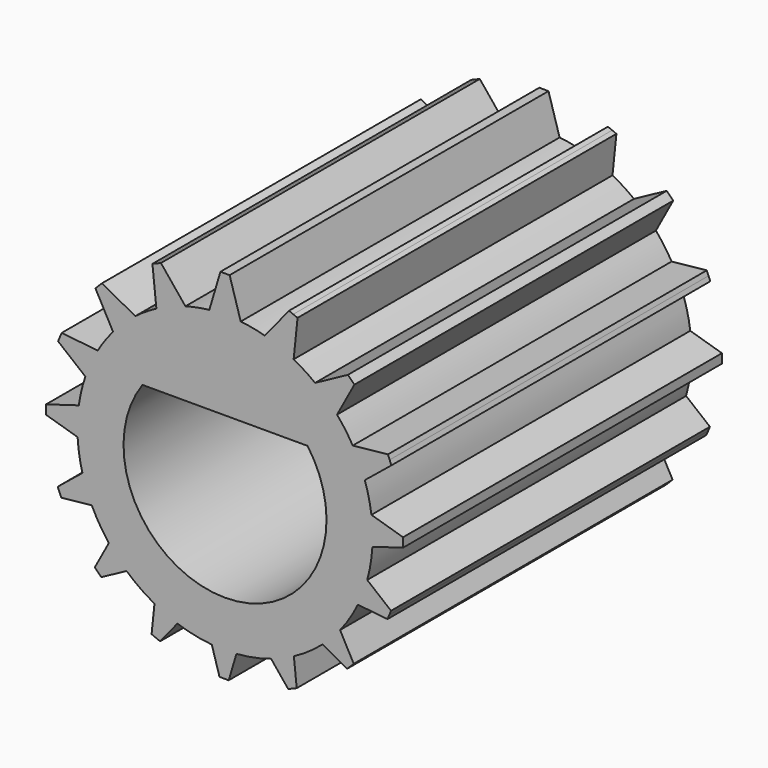
from build123d import *

# Parameters (mm, degrees)
F1_DEPTH      = 8.382
F2_R          = 3.4925
F4_DEPTH      = 25.4
F4_DEPTH_BACK = 25.4
F5_R          = 3.4925
F6_DEPTH      = 17.018
F3_R          = 12.173487119
F3_R_2        = 5.08
F7_DEPTH      = 8.636
F9_DEPTH      = 8.636
F10_DEPTH     = 8.382
F11_DEPTH     = 8.382
F12_DEPTH     = 5.08
F14_DEPTH     = 13.716


with BuildPart() as f1:
    # F0 (on Front) → F1 (new body)
    with BuildSketch(Plane.XZ):
        with BuildLine():
            ThreePointArc((6.1828297209, -0.9138471655), (6.2331848102, -0.4581562201), (6.25, 0))
            ThreePointArc((6.25, 0), (6.2331848102, 0.4581562201), (6.1828297209, 0.9138471655))
            ThreePointArc((6.1828297209, 0.9138471655), (5.4126587737, 3.125), (3.8828297209, 4.8975640229))
            ThreePointArc((3.8828297209, 4.8975640229), (3.125, 5.4126587737), (2.3, 5.8114111883))
            ThreePointArc((2.3, 5.8114111883), (1.170722015, 6.1393737436), (0, 6.25))
            ThreePointArc((0, 6.25), (-1.170722015, 6.1393737436), (-2.3, 5.8114111883))
            ThreePointArc((-2.3, 5.8114111883), (-3.125, 5.4126587737), (-3.8828297209, 4.8975640229))
            ThreePointArc((-3.8828297209, 4.8975640229), (-5.4126587737, 3.125), (-6.1828297209, 0.9138471655))
            ThreePointArc((-6.1828297209, 0.9138471655), (-6.25, 0), (-6.1828297209, -0.9138471655))
            ThreePointArc((-6.1828297209, -0.9138471655), (-5.4126587737, -3.125), (-3.8828297209, -4.8975640229))
            ThreePointArc((-3.8828297209, -4.8975640229), (-3.125, -5.4126587737), (-2.3, -5.8114111883))
            ThreePointArc((-2.3, -5.8114111883), (0, -6.25), (2.3, -5.8114111883))
            ThreePointArc((2.3, -5.8114111883), (3.125, -5.4126587737), (3.8828297209, -4.8975640229))
            ThreePointArc((3.8828297209, -4.8975640229), (5.4126587737, -3.125), (6.1828297209, -0.9138471655))
        make_face()
        with BuildLine():
            ThreePointArc((3.8828297209, 4.8975640229), (5.4126587737, 3.125), (6.1828297209, 0.9138471655))
            Line((6.1828297209, 0.9138471655), (8.490734985, 3.7936156124))
            Line((8.490734985, 3.7936156124), (8.010734985, 4.625))
            Line((8.010734985, 4.625), (7.530734985, 5.4563843876))
            Line((7.530734985, 5.4563843876), (3.8828297209, 4.8975640229))
        make_face()
        with BuildLine():
            Line((8.490734985, -3.7936156124), (6.1828297209, -0.9138471655))
            ThreePointArc((6.1828297209, -0.9138471655), (5.4126587737, -3.125), (3.8828297209, -4.8975640229))
            Line((3.8828297209, -4.8975640229), (7.530734985, -5.4563843876))
            Line((7.530734985, -5.4563843876), (8.010734985, -4.625))
            Line((8.010734985, -4.625), (8.490734985, -3.7936156124))
        make_face()
        with BuildLine():
            ThreePointArc((0, 6.25), (1.170722015, 6.1393737436), (2.3, 5.8114111883))
            Line((2.3, 5.8114111883), (0.96, 9.25))
            Line((0.96, 9.25), (0, 9.25))
            Line((0, 9.25), (0, 6.25))
        make_face()
        with BuildLine():
            Line((0.96, -9.25), (2.3, -5.8114111883))
            ThreePointArc((2.3, -5.8114111883), (0, -6.25), (-2.3, -5.8114111883))
            Line((-2.3, -5.8114111883), (-0.96, -9.25))
            Line((-0.96, -9.25), (0, -9.25))
            Line((0, -9.25), (0.96, -9.25))
        make_face()
        with BuildLine():
            ThreePointArc((-2.3, 5.8114111883), (-1.170722015, 6.1393737436), (0, 6.25))
            Line((0, 6.25), (0, 9.25))
            Line((0, 9.25), (-0.96, 9.25))
            Line((-0.96, 9.25), (-2.3, 5.8114111883))
        make_face()
        with BuildLine():
            Line((-7.530734985, -5.4563843876), (-3.8828297209, -4.8975640229))
            ThreePointArc((-3.8828297209, -4.8975640229), (-5.4126587737, -3.125), (-6.1828297209, -0.9138471655))
            Line((-6.1828297209, -0.9138471655), (-8.490734985, -3.7936156124))
            Line((-8.490734985, -3.7936156124), (-8.010734985, -4.625))
            Line((-8.010734985, -4.625), (-7.530734985, -5.4563843876))
        make_face()
        with BuildLine():
            ThreePointArc((-6.1828297209, 0.9138471655), (-5.4126587737, 3.125), (-3.8828297209, 4.8975640229))
            Line((-3.8828297209, 4.8975640229), (-7.530734985, 5.4563843876))
            Line((-7.530734985, 5.4563843876), (-8.010734985, 4.625))
            Line((-8.010734985, 4.625), (-8.490734985, 3.7936156124))
            Line((-8.490734985, 3.7936156124), (-6.1828297209, 0.9138471655))
        make_face()
    extrude(amount=F1_DEPTH)

    # F2 (on face) → F4 (cut, two sides)
    with BuildSketch(Plane.XZ.offset(8.382)) as f4_sk:
        Circle(F2_R)
    extrude(amount=-F4_DEPTH, mode=Mode.SUBTRACT)
    extrude(f4_sk.sketch, amount=F4_DEPTH_BACK, mode=Mode.SUBTRACT)

    # F5 (on face) → F6 (join)
    with BuildSketch(Plane.XZ.offset(8.382)):
        with BuildLine():
            ThreePointArc((6.1828297209, -0.9138471655), (6.25, 0), (6.1828297209, 0.9138471655))
            Line((6.1828297209, 0.9138471655), (8.490734985, 3.7936156124))
            Line((8.490734985, 3.7936156124), (7.530734985, 5.4563843876))
            Line((7.530734985, 5.4563843876), (3.8828297209, 4.8975640229))
            ThreePointArc((3.8828297209, 4.8975640229), (3.125, 5.4126587737), (2.3, 5.8114111883))
            Line((2.3, 5.8114111883), (0.96, 9.25))
            Line((0.96, 9.25), (-0.96, 9.25))
            Line((-0.96, 9.25), (-2.3, 5.8114111883))
            ThreePointArc((-2.3, 5.8114111883), (-3.125, 5.4126587737), (-3.8828297209, 4.8975640229))
            Line((-3.8828297209, 4.8975640229), (-7.530734985, 5.4563843876))
            Line((-7.530734985, 5.4563843876), (-8.490734985, 3.7936156124))
            Line((-8.490734985, 3.7936156124), (-6.1828297209, 0.9138471655))
            ThreePointArc((-6.1828297209, 0.9138471655), (-6.25, 0), (-6.1828297209, -0.9138471655))
            Line((-6.1828297209, -0.9138471655), (-8.490734985, -3.7936156124))
            Line((-8.490734985, -3.7936156124), (-7.530734985, -5.4563843876))
            Line((-7.530734985, -5.4563843876), (-3.8828297209, -4.8975640229))
            ThreePointArc((-3.8828297209, -4.8975640229), (-3.125, -5.4126587737), (-2.3, -5.8114111883))
            Line((-2.3, -5.8114111883), (-0.96, -9.25))
            Line((-0.96, -9.25), (0.96, -9.25))
            Line((0.96, -9.25), (2.3, -5.8114111883))
            ThreePointArc((2.3, -5.8114111883), (3.125, -5.4126587737), (3.8828297209, -4.8975640229))
            Line((3.8828297209, -4.8975640229), (7.530734985, -5.4563843876))
            Line((7.530734985, -5.4563843876), (8.490734985, -3.7936156124))
            Line((8.490734985, -3.7936156124), (6.1828297209, -0.9138471655))
        make_face()
        Circle(F5_R, mode=Mode.SUBTRACT)
    extrude(amount=F6_DEPTH)

    # F3 (on face) → F7 (cut)
    with BuildSketch(Plane.XZ.offset(8.382)):
        Circle(F3_R)
        Circle(F3_R_2, mode=Mode.SUBTRACT)
    extrude(amount=F7_DEPTH, mode=Mode.SUBTRACT)

    # F8 (on face) → F9 (join)
    with BuildSketch(Plane.XZ.offset(8.382)):
        Polygon((0, 6.331880849), (-0.1584395108, 6.331880849), (-0.5401262814, 5.0512041733), (-0.5212335788, 4.7746545562), (0, 4.7746545562), (0.5212335788, 4.7746545562), (0.5401262814, 5.0512041733), (0.1584395108, 6.331880849), align=None)
        Polygon((-2.3517561236, 5.8703246961), (-2.4981351448, 5.8096925202), (-2.3606739939, 4.4804363484), (-2.237388456, 4.2321677417), (-1.7558314209, 4.4316351967), (-1.2742743857, 4.6311026517), (-1.3626507612, 4.8938311069), (-2.2053771024, 5.9309568719), align=None)
        Polygon((-4.3478655788, 4.5439243078), (-4.4598992313, 4.4318906553), (-3.8242173731, 3.2564221897), (-3.6153081055, 3.0742312382), (-3.2467403073, 3.4427990364), (-2.8781725091, 3.8113668345), (-3.0603634606, 4.0202761022), (-4.2358319262, 4.6559579604), align=None)
        Polygon((-5.6844387958, 2.5546121196), (-5.7450709717, 2.4082330984), (-4.7079452067, 1.5655067572), (-4.4452167514, 1.4771303817), (-4.2457492964, 1.9586874169), (-4.0462818414, 2.440244452), (-4.2945504481, 2.5635299899), (-5.62380662, 2.7009911408), align=None)
        Polygon((-6.1579946185, 0.2052428787), (-6.1579946185, 0.0468033679), (-4.8773179428, -0.3348834026), (-4.6007683257, -0.3159907001), (-4.6007683257, 0.2052428787), (-4.6007683257, 0.7264764576), (-4.8773179428, 0.7453691601), (-6.1579946185, 0.3636823896), align=None)
        Polygon((-5.6964384656, -2.1465132448), (-5.6358062898, -2.292892266), (-4.3065501179, -2.1554311152), (-4.0582815112, -2.0321455773), (-4.2577489662, -1.5505885421), (-4.4572164212, -1.069031507), (-4.7199448764, -1.1574078825), (-5.7570706414, -2.0001342236), align=None)
        Polygon((-4.3700380774, -4.1426227), (-4.2580044249, -4.2546563526), (-3.0825359593, -3.6189744944), (-2.9003450077, -3.4100652267), (-3.2689128059, -3.0414974286), (-3.6374806041, -2.6729296304), (-3.8463898718, -2.8551205819), (-4.4820717299, -4.0305890475), align=None)
        Polygon((-2.3807258891, -5.4791959171), (-2.2343468679, -5.5398280929), (-1.3916205268, -4.5027023279), (-1.3032441513, -4.2399738727), (-1.7848011864, -4.0405064177), (-2.2663582216, -3.8410389627), (-2.3896437594, -4.0893075694), (-2.5271049103, -5.4185637413), align=None)
        Polygon((-0.0313566483, -5.9527517398), (0.1270828626, -5.9527517398), (0.5087696331, -4.6720750641), (0.4898769306, -4.395525447), (-0.0313566483, -4.395525447), (-0.5525902271, -4.395525447), (-0.5714829296, -4.6720750641), (-0.1897961591, -5.9527517398), align=None)
        Polygon((2.3203994753, -5.4911955869), (2.4667784965, -5.4305634111), (2.3293173456, -4.1013072392), (2.2060318077, -3.8530386325), (1.7244747726, -4.0525060875), (1.2429177375, -4.2519735425), (1.331294113, -4.5147019977), (2.1740204541, -5.5518277627), align=None)
        Polygon((4.3165089305, -4.1647951987), (4.428542583, -4.0527615461), (3.7928607249, -2.8772930805), (3.5839514572, -2.695102129), (3.215383659, -3.0636699272), (2.8468158608, -3.4322377254), (3.0290068124, -3.641146993), (4.204475278, -4.2768288512), align=None)
        Polygon((5.6530821475, -2.1754830104), (5.7137143234, -2.0291039892), (4.6765885584, -1.1863776481), (4.4138601032, -1.0980012726), (4.2143926482, -1.5795583077), (4.0149251931, -2.0611153428), (4.2631937999, -2.1844008807), (5.5924499717, -2.3218620316), align=None)
        Polygon((6.1266379702, 0.1738862305), (6.1266379702, 0.3323257413), (4.8459612946, 0.7140125118), (4.5694116774, 0.6951198093), (4.5694116774, 0.1738862305), (4.5694116774, -0.3473473484), (4.8459612946, -0.3662400509), (6.1266379702, 0.0154467196), align=None)
        Polygon((5.6650818173, 2.525642354), (5.6044496415, 2.6720213752), (4.2751934697, 2.5345602243), (4.0269248629, 2.4112746865), (4.2263923179, 1.9297176513), (4.425859773, 1.4481606162), (4.6885882282, 1.5365369917), (5.7257139932, 2.3792633328), align=None)
        Polygon((4.3386814291, 4.5217518092), (4.2266477766, 4.6337854617), (3.051179311, 3.9981036036), (2.8689883595, 3.7891943359), (3.2375561576, 3.4206265377), (3.6061239558, 3.0520587396), (3.8150332235, 3.2342496911), (4.4507150816, 4.4097181567), align=None)
        Polygon((2.3493692408, 5.8583250263), (2.2029902196, 5.9189572021), (1.3602638785, 4.8818314371), (1.271887503, 4.6191029819), (1.7534445381, 4.4196355269), (2.2350015733, 4.2201680719), (2.3582871112, 4.4684366786), (2.495748262, 5.7976928504), align=None)
    extrude(amount=F9_DEPTH)

    # F10 (cut): a face of the model
    f10_faces = [f1.faces().sort_by_distance(p)[0] for p in [
        (2.9994392256, -25.4, -5.195181133),
    ]]
    extrude(f10_faces, amount=-F10_DEPTH, mode=Mode.SUBTRACT)

    # F11 (cut): a face of the model
    f11_faces = [f1.faces().sort_by_distance(p)[0] for p in [
        (7.1408252188, 0, 2.5107754394),
    ]]
    extrude(f11_faces, amount=-F11_DEPTH, mode=Mode.SUBTRACT)

    # F12 (add): a face of the model
    f12_faces = [f1.faces().sort_by_distance(p)[0] for p in [
        (-2.257465366, -8.382, 5.1713496699),
    ]]
    extrude(f12_faces, amount=F12_DEPTH)

    # F13 (on face) → F14 (join, through all)
    with BuildSketch(Plane(origin=(0, -3.302, 0), x_dir=(-1, 0, 0), z_dir=(0, 1, 0))):
        with BuildLine():
            Line((-3.0521756738, 2.032), (3.0521756738, 2.032))
            ThreePointArc((3.0521756738, 2.032), (0, 3.6667151981), (-3.0521756738, 2.032))
        make_face()
    extrude(amount=-F14_DEPTH)


solid = f1.part
